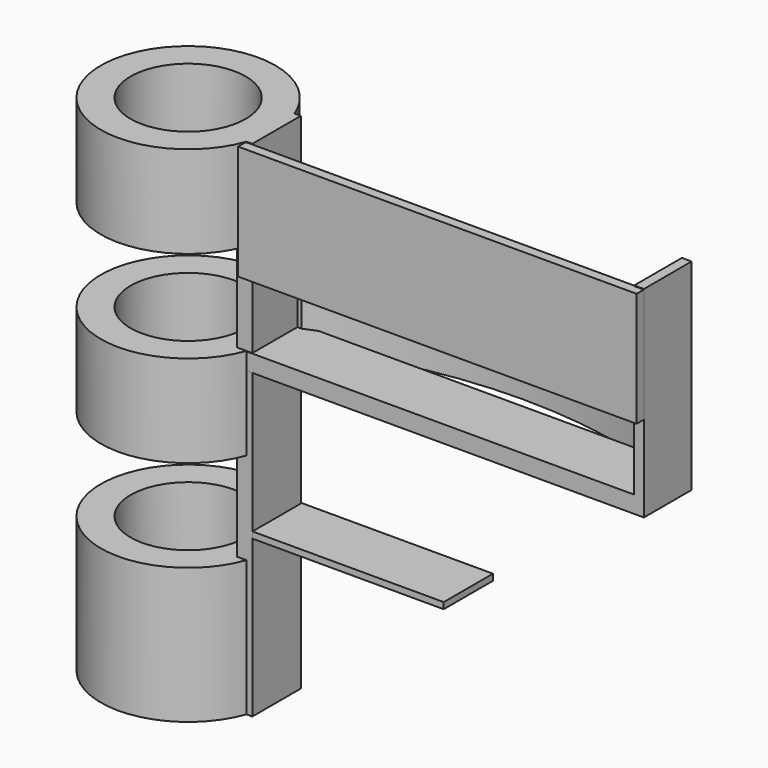
from build123d import *

# Parameters (mm, degrees)
F0_R      = 18
F1_DEPTH  = 8
F2_R      = 18
F2_R_2    = 11.875
F3_DEPTH  = 96
F7_W      = 114.2527745105
F7_H      = 71.0478108376
F8_DEPTH  = 19
F9_W      = 142.8963663056
F9_H      = 89.3513672054
F10_DEPTH = 19
F12_DEPTH = 104
F14_W     = 80
F14_H     = 12.8310857864
F15_DEPTH = 3.5
F16_W     = 12.3001844622
F16_H     = 37.9971187711
F16_H_2   = 3.5
F17_DEPTH = 2
F18_W     = 82.2026617825
F18_H     = 23.6075371504
F19_DEPTH = 2
F22_DEPTH = 13.5
F24_W     = 39.2900933512
F24_H     = 12.6941720955
F25_DEPTH = 1.3
F26_DEPTH = 2.4


with BuildPart() as f1:
    # F0 (on Top) → F1 (new body)
    with BuildSketch(Plane.XY):
        with Locations((-64.5627826452, 2.4795725476)):
            Circle(F0_R)
    extrude(amount=F1_DEPTH)

    # F2 (on face) → F3 (join)
    with BuildSketch(Plane.XY.offset(8)):
        with Locations((-64.5627826452, 2.4795725476)):
            Circle(F2_R)
        with Locations((-64.5627826452, 2.4795725476)):
            Circle(F2_R_2, mode=Mode.SUBTRACT)
    extrude(amount=F3_DEPTH)

    # F7 (on offset) → F8 (cut)
    with BuildSketch(Plane.XY.offset(66)):
        with Locations((-59.9692843389, 7.8492248431)):
            Rectangle(F7_W, F7_H)
    extrude(amount=F8_DEPTH, mode=Mode.SUBTRACT)

    # F9 (on offset) → F10 (cut)
    with BuildSketch(Plane.XY.offset(47)):
        with Locations((-63.3265613578, 3.715576604)):
            Rectangle(F9_W, F9_H)
    extrude(amount=-F10_DEPTH, mode=Mode.SUBTRACT)

    # F11 (on Top) → F12 (join)
    with BuildSketch(Plane.XY):
        Polygon((-46.4286282659, 8.8664737705), (-47.033398658, 8.8664737705), (-49.5477505028, 8.8664737705), (-49.5477505028, -3.6335218174), (-47.033398658, -3.6335218174), (-46.4286282659, -3.6335218174), align=None)
    extrude(amount=F12_DEPTH)

    # F14 (on offset) → F15 (join)
    with BuildSketch(Plane.XY.offset(66)):
        with Locations((-7.5557883829, 2.6472329628)):
            Rectangle(F14_W, F14_H)
    extrude(amount=-F15_DEPTH)

    # F16 (on face) → F17 (join)
    with BuildSketch(Plane.YZ.offset(32.4442116171)):
        with Locations((2.3817823007, 84.9985593855)):
            Rectangle(F16_W, F16_H)
        with Locations((2.3817823007, 64.25)):
            Rectangle(F16_W, F16_H_2)
    extrude(amount=F17_DEPTH)

    # F18 (on face) → F19 (join)
    with BuildSketch(Plane.XZ.offset(3.6335218174)):
        with Locations((-6.6709686071, 92.0722857118)):
            Rectangle(F18_W, F18_H)
    extrude(amount=F19_DEPTH)

    # F21 (on offset) → F22 (join)
    with BuildSketch(Plane.XY.offset(62.6)):
        with BuildLine():
            Line((31.0583338141, 8.7254531682), (32.4985198677, 8.7659778073))
            ThreePointArc((32.4985198677, 8.7659778073), (-7.1450361543, 16.8829381262), (-46.6268882155, 8.0127669498))
            Line((-46.6268882155, 8.0127669498), (-45.5970168114, 7.9405866563))
            ThreePointArc((-45.5970168114, 7.9405866563), (-7.3488744174, 16.1007405169), (31.0583338141, 8.7254531682))
        make_face()
    extrude(amount=F22_DEPTH)



with BuildPart() as f25:
    # F24 (on offset) → F25 (new body)
    with BuildSketch(Plane.XY.offset(33.6)):
        with Locations((-26.6252344009, 2.7435675729)):
            Rectangle(F24_W, F24_H)
    extrude(amount=-F25_DEPTH)


with BuildPart() as f1_1:
    add(f1.part)
    # F26 (add): a face of the model
    f26_faces = [f25.part.faces().sort_by_distance(p)[0] for p in [
        (-46.2702810764, 2.7435675729, 32.95),
    ]]

    add(f25.part)  # F26 merges F25
    extrude(f26_faces, amount=F26_DEPTH)


solid = f1_1.part
